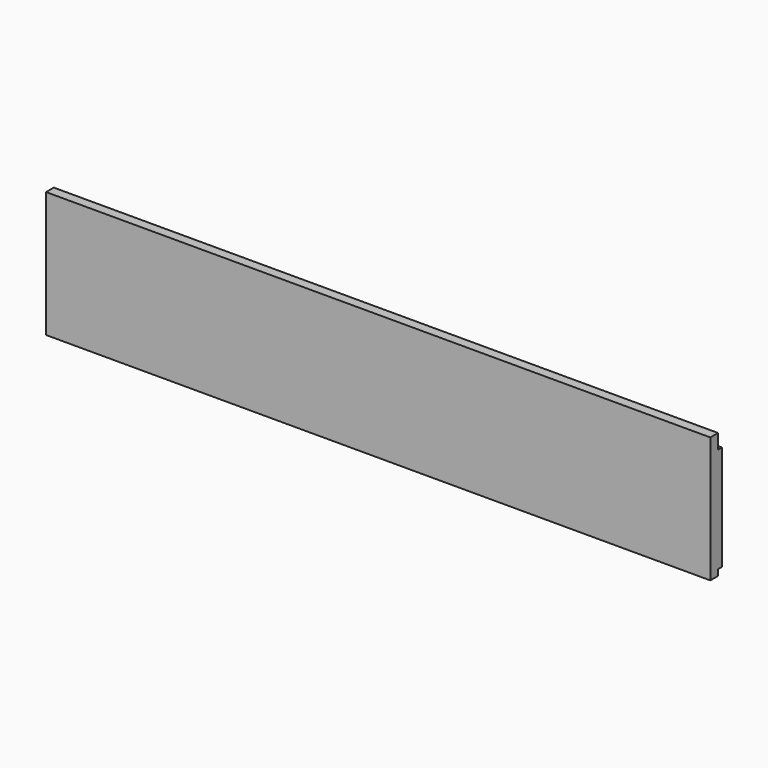
from build123d import *

# Parameters (mm, degrees)
F0_W     = 686
F0_H     = 15
F1_DEPTH = 65
F2_W     = 686
F2_H     = 15.2
F2_H_2   = 6.2
F3_DEPTH = 5


with BuildPart() as f1:
    # F0 (on Top) → F1 (new body, symmetric)
    with BuildSketch(Plane.XY):
        Rectangle(F0_W, F0_H)
    extrude(amount=F1_DEPTH, both=True)

    # F2 (on face) → F3 (cut)
    with BuildSketch(Plane(origin=(0, 7.5, 0), x_dir=(-1, 0, 0), z_dir=(0, 1, 0))):
        with Locations((0, 57.4)):
            Rectangle(F2_W, F2_H)
        with Locations((0, -61.9)):
            Rectangle(F2_W, F2_H_2)
    extrude(amount=-F3_DEPTH, mode=Mode.SUBTRACT)


solid = f1.part
